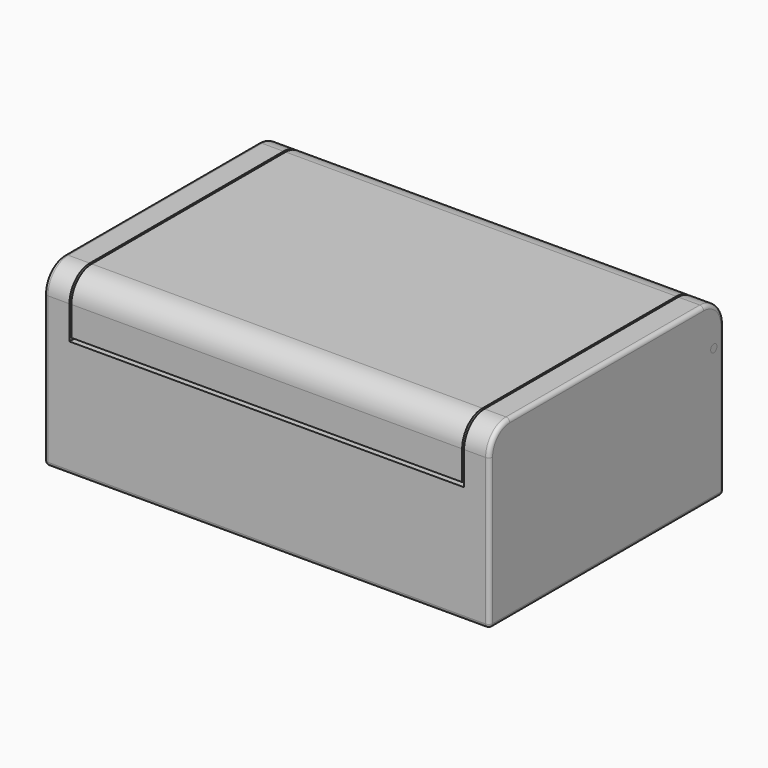
from build123d import *

# Parameters (mm, degrees)
SKETCH006_W             = 100
SKETCH006_H             = 6.5
PAD006_DEPTH            = 7.5
SKETCH007_W             = 100
SKETCH007_H             = 75
PAD007_DEPTH            = 6.5
FILLET002_R             = 6.49
SKETCH005_W             = 100
SKETCH005_H             = 6.5
PAD005_DEPTH            = 7.5
FILLET003_R             = 2
SKETCH015_R             = 1.5
POCKET004_DEPTH         = 5
SKETCH016_R             = 1.5
POCKET005_DEPTH         = 5
SKETCH008_W             = 32
SKETCH008_H             = 7
SKETCH008_R             = 2
PAD008_DEPTH            = 7
SKETCH009_W             = 14
SKETCH009_H             = 7
PAD009_DEPTH            = 14
SKETCH010_W             = 12.2
SKETCH010_H             = 5
POCKET_DEPTH            = 12
BODY008_PLACEMENT_ANGLE = 90
PAD010_DEPTH            = 8
SKETCH011_R             = 2
POCKET001_DEPTH         = 10
SKETCH017_R             = 1
PAD011_DEPTH            = 11
BODY010_PLACEMENT_ANGLE = 270
SKETCH018_R             = 1
PAD012_DEPTH            = 11
BODY011_PLACEMENT_ANGLE = 270
SKETCH003_W             = 101
SKETCH003_H             = 28.5
PAD003_DEPTH            = 6.5
BODY003_PLACEMENT_ANGLE = 90
SKETCH002_W             = 101
SKETCH002_H             = 28.5
SKETCH002_R             = 3.5
PAD002_DEPTH            = 6.5
BODY002_PLACEMENT_ANGLE = 90
SKETCH001_W             = 75
SKETCH001_H             = 45
PAD001_DEPTH            = 6.5
FILLET004_R             = 6.5
FILLET005_R             = 1
SKETCH014_R             = 1
POCKET003_DEPTH         = 10
BODY001_ROLL_ANGLE      = 90
BODY001_PLACEMENT_ANGLE = -90
SKETCH_W                = 75
SKETCH_H                = 45
PAD_DEPTH               = 6.5
FILLET_R                = 6.5
FILLET006_R             = 1
SKETCH013_R             = 1
POCKET002_DEPTH         = 10
BODY_ROLL_ANGLE         = 90
BODY_PLACEMENT_ANGLE    = -90
SKETCH004_W             = 75
SKETCH004_H             = 101
PAD004_DEPTH            = 1.5
FILLET007_R             = 1
BODY004_PLACEMENT_ANGLE = 270


with BuildPart() as topfront:
    # Sketch006 → Pad006 (new body)
    with BuildSketch(Plane.XY):
        with Locations((50, 3.25)):
            Rectangle(SKETCH006_W, SKETCH006_H)
    extrude(amount=PAD006_DEPTH)


with BuildPart() as topfront_1:
    # Body006 placement: moved
    add(topfront.part.moved(Location((0.5, -75, 31))))


with BuildPart() as toptop:
    # Sketch007 → Pad007 (new body)
    with BuildSketch(Plane.XY):
        with Locations((50, 37.5)):
            Rectangle(SKETCH007_W, SKETCH007_H)
    extrude(amount=PAD007_DEPTH)

    # Fillet002
    fillet002_edges = [toptop.edges().sort_by_distance(p)[0] for p in [
        (50, 0, 6.5),
        (50, 75, 6.5),
    ]]
    fillet(fillet002_edges, radius=FILLET002_R)


with BuildPart() as toptop_1:
    # Body007 placement: moved
    add(toptop.part.moved(Location((0.5, -75, 38.5))))


with BuildPart() as top:
    # Sketch005 → Pad005 (new body)
    with BuildSketch(Plane.XY):
        with Locations((50, 3.25)):
            Rectangle(SKETCH005_W, SKETCH005_H)
    extrude(amount=PAD005_DEPTH)

    # Fillet003
    fillet003_edges = [top.edges().sort_by_distance(p)[0] for p in [
        (50, 6.5, 0),
    ]]
    fillet(fillet003_edges, radius=FILLET003_R)

    # Sketch015 → Pocket004 (cut)
    with BuildSketch(Plane.YZ):
        with Locations((3.25, 3.25)):
            Circle(SKETCH015_R)
    extrude(amount=POCKET004_DEPTH, mode=Mode.SUBTRACT)

    # Sketch016 → Pocket005 (cut)
    with BuildSketch(Plane.YZ.offset(100)):
        with Locations((3.25, 3.25)):
            Circle(SKETCH016_R)
    extrude(amount=-POCKET005_DEPTH, mode=Mode.SUBTRACT)


with BuildPart() as top_1:
    # Body005 placement: moved
    add(top.part.moved(Location((0.5, -6.5, 31))))

    # Fusion: union TopFront, TopTop
    add(topfront_1.part)
    add(toptop_1.part)


with BuildPart() as connectorholder:
    # Sketch008 → Pad008 (new body)
    with BuildSketch(Plane.XY):
        Rectangle(SKETCH008_W, SKETCH008_H)
        with Locations((-12, 0)):
            Circle(SKETCH008_R, mode=Mode.SUBTRACT)
        with Locations((12, 0)):
            Circle(SKETCH008_R, mode=Mode.SUBTRACT)
    extrude(amount=PAD008_DEPTH)

    # Sketch009 → Pad009 (join)
    with BuildSketch(Plane.XY):
        Rectangle(SKETCH009_W, SKETCH009_H)
    extrude(amount=PAD009_DEPTH)

    # Sketch010 → Pocket (cut)
    with BuildSketch(Plane.XY):
        with Locations((0, -1)):
            Rectangle(SKETCH010_W, SKETCH010_H)
    extrude(amount=POCKET_DEPTH, mode=Mode.SUBTRACT)


with BuildPart() as connectorholder_1:
    # Body008 placement: moved
    add(connectorholder.part.moved(Location((50.5, -6.5, 19))).rotate(Axis((50.5, -6.5, 19), (1, 0, 0)), BODY008_PLACEMENT_ANGLE))


with BuildPart() as obj1:
    # Sketch012 → Pad010 (new body)
    with BuildSketch(Plane.XY):
        Polygon((0, 49), (0, 37), (8, 37), (8, 21), (0, 21), (0, 10), (5.5, 10), (5.5, 13.5), (13.5, 13.5), (13.5, 10), (19, 10), (19, 8), (17, 8), (17, 0), (22, 0), (22, 21), (13, 21), (13, 41), (7, 41), (7, 49), align=None)
    extrude(amount=PAD010_DEPTH)

    # Sketch011 → Pocket001 (cut)
    with BuildSketch(Plane.YZ):
        with Locations((45, 4)):
            Circle(SKETCH011_R)
    extrude(amount=POCKET001_DEPTH, mode=Mode.SUBTRACT)


with BuildPart() as obj1_1:
    # Body009 placement: moved
    add(obj1.part.moved(Location((0, -68.5, 16))))


with BuildPart() as boxpinleft:
    # Sketch017 → Pad011 (new body)
    with BuildSketch(Plane.XY):
        Circle(SKETCH017_R)
    extrude(amount=PAD011_DEPTH)


with BuildPart() as boxpinleft_1:
    # Body010 placement: moved
    add(boxpinleft.part.moved(Location((4.5, -3.25, 34.25))).rotate(Axis((4.5, -3.25, 34.25), (0, 1, 0)), BODY010_PLACEMENT_ANGLE))


with BuildPart() as boxpinright:
    # Sketch018 → Pad012 (new body)
    with BuildSketch(Plane.XY):
        Circle(SKETCH018_R)
    extrude(amount=PAD012_DEPTH)


with BuildPart() as boxpinright_1:
    # Body011 placement: moved
    add(boxpinright.part.moved(Location((107.5, -3.25, 34.25))).rotate(Axis((107.5, -3.25, 34.25), (0, 1, 0)), BODY011_PLACEMENT_ANGLE))


with BuildPart() as boxfront:
    # Sketch003 → Pad003 (new body)
    with BuildSketch(Plane.XY):
        with Locations((50.5, 14.25)):
            Rectangle(SKETCH003_W, SKETCH003_H)
    extrude(amount=PAD003_DEPTH)


with BuildPart() as boxfront_1:
    # Body003 placement: moved
    add(boxfront.part.moved(Location((0, -68.5, 1.5))).rotate(Axis((0, -68.5, 1.5), (1, 0, 0)), BODY003_PLACEMENT_ANGLE))


with BuildPart() as boxback:
    # Sketch002 → Pad002 (new body)
    with BuildSketch(Plane.XY):
        with Locations((50.5, 14.25)):
            Rectangle(SKETCH002_W, SKETCH002_H)
        with Locations((50.5, 14)):
            Circle(SKETCH002_R, mode=Mode.SUBTRACT)
    extrude(amount=PAD002_DEPTH)


with BuildPart() as boxback_1:
    # Body002 placement: moved
    add(boxback.part.moved(Location((0, 0, 1.5))).rotate(Axis((0, 0, 1.5), (1, 0, 0)), BODY002_PLACEMENT_ANGLE))


with BuildPart() as boxright:
    # Sketch001 → Pad001 (new body)
    with BuildSketch(Plane.XY):
        with Locations((37.5, 22.5)):
            Rectangle(SKETCH001_W, SKETCH001_H)
    extrude(amount=PAD001_DEPTH)

    # Fillet004
    fillet004_edges = [boxright.edges().sort_by_distance(p)[0] for p in [
        (75, 45, 3.25),
        (0, 45, 3.25),
    ]]
    fillet(fillet004_edges, radius=FILLET004_R)

    # Fillet005
    fillet005_edges = [boxright.edges().sort_by_distance(p)[0] for p in [
        (37.5, 45, 0),
        (1.903806, 43.096194, 0),
        (73.096194, 43.096194, 0),
        (0, 19.25, 0),
        (75, 19.25, 0),
        (37.5, 0, 0),
        (75, 0, 3.25),
        (0, 0, 3.25),
    ]]
    fillet(fillet005_edges, radius=FILLET005_R)

    # Sketch014 → Pocket003 (cut)
    with BuildSketch(Plane.XY):
        with Locations((3.25, 34.25)):
            Circle(SKETCH014_R)
    extrude(amount=POCKET003_DEPTH, mode=Mode.SUBTRACT)


with BuildPart() as boxright_1:
    # Body001 roll: moved
    add(boxright.part.rotate(Axis((0, 0, 0), (1, 0, 0)), BODY001_ROLL_ANGLE))


with BuildPart() as boxright_2:
    # Body001 placement: moved
    add(boxright_1.part.moved(Location((107.5, 0, 0))).rotate(Axis((107.5, 0, 0), (0, 0, 1)), BODY001_PLACEMENT_ANGLE))


with BuildPart() as boxleft:
    # Sketch → Pad (new body)
    with BuildSketch(Plane.XY):
        with Locations((37.5, 22.5)):
            Rectangle(SKETCH_W, SKETCH_H)
    extrude(amount=PAD_DEPTH)

    # Fillet
    fillet_edges = [boxleft.edges().sort_by_distance(p)[0] for p in [
        (0, 45, 3.25),
        (75, 45, 3.25),
    ]]
    fillet(fillet_edges, radius=FILLET_R)

    # Fillet006
    fillet006_edges = [boxleft.edges().sort_by_distance(p)[0] for p in [
        (37.5, 45, 6.5),
        (1.903806, 43.096194, 6.5),
        (73.096194, 43.096194, 6.5),
        (0, 19.25, 6.5),
        (75, 19.25, 6.5),
        (37.5, 0, 6.5),
        (75, 0, 3.25),
        (0, 0, 3.25),
    ]]
    fillet(fillet006_edges, radius=FILLET006_R)

    # Sketch013 → Pocket002 (cut)
    with BuildSketch(Plane.XY):
        with Locations((3.25, 34.25)):
            Circle(SKETCH013_R)
    extrude(amount=POCKET002_DEPTH, mode=Mode.SUBTRACT)


with BuildPart() as boxleft_1:
    # Body roll: moved
    add(boxleft.part.rotate(Axis((0, 0, 0), (1, 0, 0)), BODY_ROLL_ANGLE))


with BuildPart() as boxleft_2:
    # Body placement: moved
    add(boxleft_1.part.rotate(Axis((0, 0, 0), (0, 0, 1)), BODY_PLACEMENT_ANGLE))


with BuildPart() as box:
    # Sketch004 → Pad004 (new body)
    with BuildSketch(Plane.XY):
        with Locations((37.5, 50.5)):
            Rectangle(SKETCH004_W, SKETCH004_H)
    extrude(amount=PAD004_DEPTH)

    # Fillet007
    fillet007_edges = [box.edges().sort_by_distance(p)[0] for p in [
        (75, 50.5, 0),
        (0, 50.5, 0),
    ]]
    fillet(fillet007_edges, radius=FILLET007_R)


with BuildPart() as box_1:
    # Body004 placement: moved
    add(box.part.rotate(Axis((0, 0, 0), (0, 0, 1)), BODY004_PLACEMENT_ANGLE))

    # Fusion001: union BoxFront, BoxBack, BoxRight, BoxLeft
    add(boxfront_1.part)
    add(boxback_1.part)
    add(boxright_2.part)
    add(boxleft_2.part)


solid = Compound([top_1.part, connectorholder_1.part, obj1_1.part, boxpinleft_1.part, boxpinright_1.part, box_1.part])
